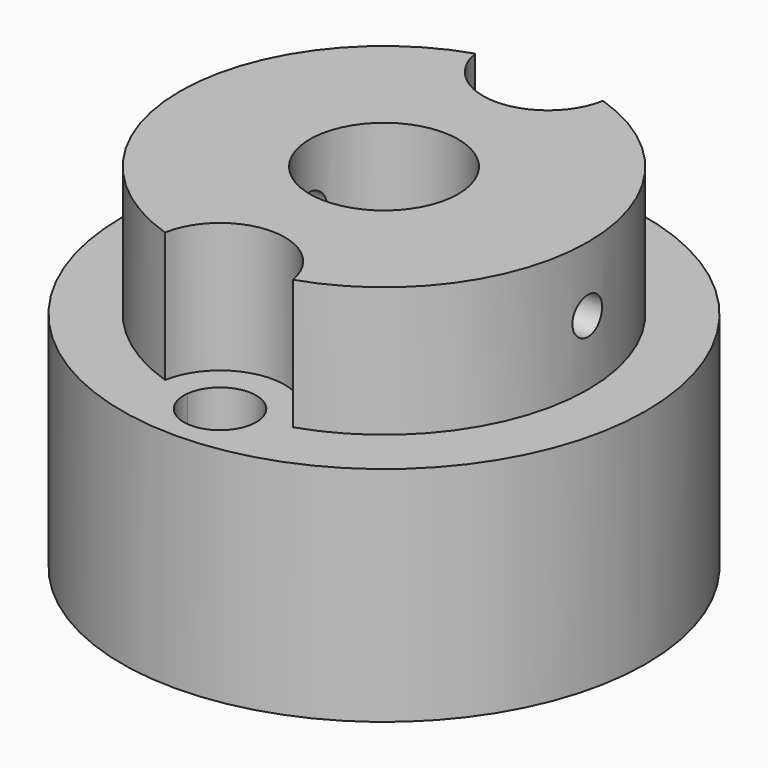
from build123d import *

# Parameters (mm, degrees)
F0_R      = 14.125
F0_R_2    = 11
F0_R_3    = 4
F1_DEPTH  = 3
F2_DEPTH  = 10
F3_R      = 14.125
F3_R_2    = 7.9
F4_DEPTH  = 9
F6_DEPTH  = 12
F7_R      = 1
F8_DEPTH  = 12.5
F10_DEPTH = 7


with BuildPart() as f1:
    # F0 (on Top) → F1 (new body)
    with BuildSketch(Plane.XY):
        Circle(F0_R)
        Circle(F0_R_2, mode=Mode.SUBTRACT)
        Circle(F0_R_2)
        Circle(F0_R_3, mode=Mode.SUBTRACT)
    extrude(amount=F1_DEPTH)

    # F0 (on Top) → F2 (join)
    with BuildSketch(Plane.XY):
        Circle(F0_R_2)
        Circle(F0_R_3, mode=Mode.SUBTRACT)
    extrude(amount=F2_DEPTH)

    # F3 (on Top) → F4 (join)
    with BuildSketch(Plane.XY):
        Circle(F3_R)
        Circle(F3_R_2, mode=Mode.SUBTRACT)
    extrude(amount=-F4_DEPTH)

    # F5 (on face) → F6 (cut, through all)
    with BuildSketch(Plane.XY.offset(3)):
        with BuildLine():
            ThreePointArc((1.9373280842, 10.8280542986), (0, 11), (-1.9373280842, 10.8280542986))
            ThreePointArc((-1.9373280842, 10.8280542986), (0, 9.1), (1.9373280842, 10.8280542986))
        make_face()
        with BuildLine():
            ThreePointArc((1.9373280842, 10.8280542986), (1.9468294435, 10.9388464218), (1.95, 11.05))
            ThreePointArc((1.95, 11.05), (-0.1111535782, 12.9968294435), (-1.9373280842, 10.8280542986))
            ThreePointArc((-1.9373280842, 10.8280542986), (0, 11), (1.9373280842, 10.8280542986))
        make_face()
        with BuildLine():
            ThreePointArc((1.9373280842, -10.8280542986), (0, -9.1), (-1.9373280842, -10.8280542986))
            ThreePointArc((-1.9373280842, -10.8280542986), (0, -11), (1.9373280842, -10.8280542986))
        make_face()
        with BuildLine():
            ThreePointArc((1.9373280842, -10.8280542986), (0, -11), (-1.9373280842, -10.8280542986))
            ThreePointArc((-1.9373280842, -10.8280542986), (-0.1111535782, -12.9968294435), (1.95, -11.05))
            ThreePointArc((1.95, -11.05), (1.9468294435, -10.9388464218), (1.9373280842, -10.8280542986))
        make_face()
    extrude(amount=-F6_DEPTH, mode=Mode.SUBTRACT)

    # F7 (on Right) → F8 (cut, symmetric)
    with BuildSketch(Plane.YZ):
        with Locations((0, 6.5)):
            Circle(F7_R)
    extrude(amount=F8_DEPTH, both=True, mode=Mode.SUBTRACT)

    # F9 (on face) → F10 (cut, through all)
    with BuildSketch(Plane.XY.offset(10)):
        with BuildLine():
            ThreePointArc((3.4474570131, 10.4458144796), (0, 11), (-3.4474570131, 10.4458144796))
            ThreePointArc((-3.4474570131, 10.4458144796), (0, 7.55), (3.4474570131, 10.4458144796))
        make_face()
        with BuildLine():
            ThreePointArc((3.4474570131, -10.4458144796), (0, -7.55), (-3.4474570131, -10.4458144796))
            ThreePointArc((-3.4474570131, -10.4458144796), (0, -11), (3.4474570131, -10.4458144796))
        make_face()
    extrude(amount=-F10_DEPTH, mode=Mode.SUBTRACT)


solid = f1.part
